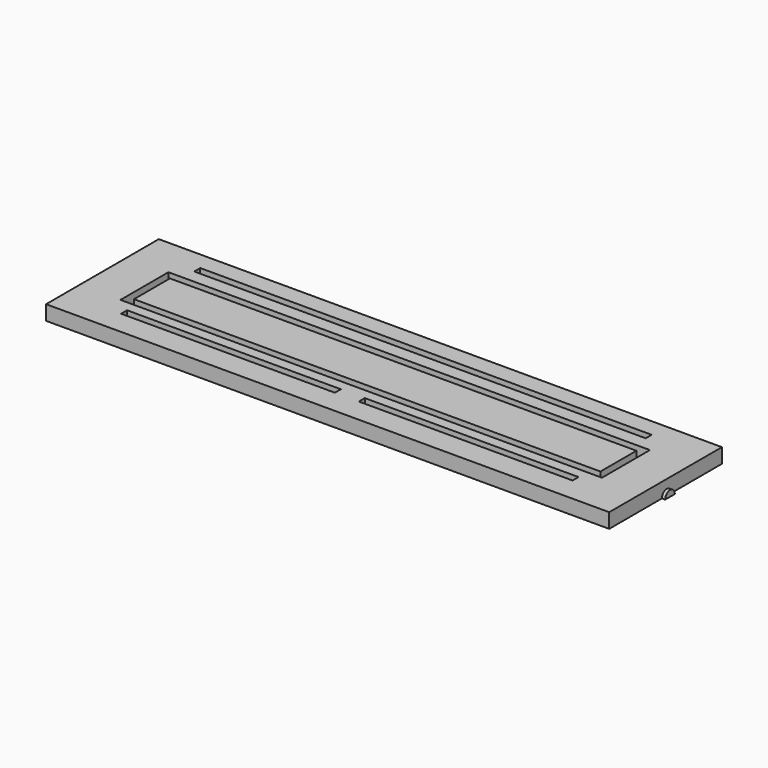
from build123d import *

# Parameters (mm, degrees)
F3_DEPTH      = 24
F3_DEPTH_BACK = 23
F2_W          = 150.6
F2_H          = 2.5
F2_W_2        = 71.3
F2_W_3        = 160.6
F2_H_2        = 20
F2_W_4        = 155.6
F2_H_3        = 15
F4_DEPTH      = 4.9
F7_DEPTH      = 95
F7_DEPTH_BACK = 95
F8_DEPTH      = 12
F8_DEPTH_BACK = 12
F9_DEPTH      = 4.75


with BuildPart() as f3:
    # F1 (on Front) → F3 (new body, two sides)
    with BuildSketch(Plane.XZ) as f3_sk:
        Polygon((-93.9166666667, 0), (0, 0), (93.9166666667, 0), (93.9166666667, 4.9), (0, 4.9), (-93.9166666667, 4.9), align=None)
    extrude(amount=F3_DEPTH)
    extrude(f3_sk.sketch, amount=-F3_DEPTH_BACK)

    # F2 (on Top) → F4 (cut, through all)
    with BuildSketch(Plane.XY):
        with Locations((0, 15.75)):
            Rectangle(F2_W, F2_H)
        with Locations((39.65, -14.75)):
            Rectangle(F2_W_2, F2_H)
        with Locations((-39.65, -14.75)):
            Rectangle(F2_W_2, F2_H)
        Rectangle(F2_W_3, F2_H_2)
        Rectangle(F2_W_4, F2_H_3, mode=Mode.SUBTRACT)
    extrude(amount=F4_DEPTH, mode=Mode.SUBTRACT)

    # F6 (on Right) → F7 (join, two sides)
    with BuildSketch(Plane.YZ) as f7_sk:
        with BuildLine():
            Line((-2, 0), (2, 0))
            ThreePointArc((2, 0), (0, 2), (-2, 0))
        make_face()
    extrude(amount=F7_DEPTH)
    extrude(f7_sk.sketch, amount=-F7_DEPTH_BACK)

    # F0 (on Front) → F8 (join, two sides)
    with BuildSketch(Plane.XZ) as f8_sk:
        with BuildLine():
            Line((0, 1.5), (0, 0))
            Line((0, 0), (1.5, 0))
            ThreePointArc((1.5, 0), (1.0606601718, 1.0606601718), (0, 1.5))
        make_face()
        with BuildLine():
            ThreePointArc((0, 1.5), (-1.0606601718, 1.0606601718), (-1.5, 0))
            Line((-1.5, 0), (0, 0))
            Line((0, 0), (0, 1.5))
        make_face()
    extrude(amount=F8_DEPTH)
    extrude(f8_sk.sketch, amount=-F8_DEPTH_BACK)

    # F2 (on Top) → F9 (join)
    with BuildSketch(Plane.XY):
        Rectangle(F2_W_4, F2_H_3)
    extrude(amount=F9_DEPTH)


solid = f3.part
